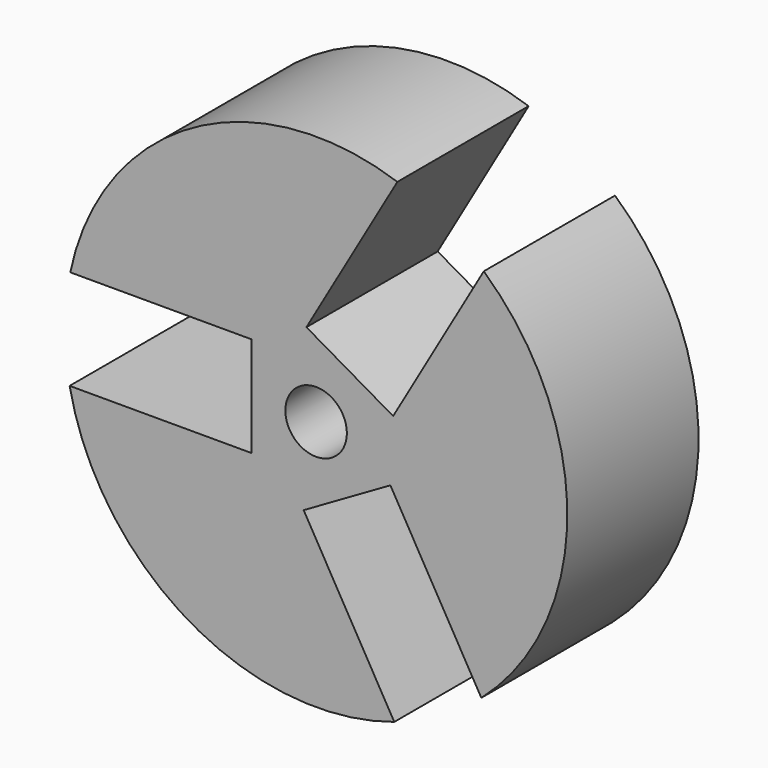
from build123d import *

# Parameters (mm, degrees)
F0_R     = 24.5
F0_R_2   = 3
F1_DEPTH = 16
F2_W     = 26.459999
F2_H     = 9.765
F3_DEPTH = 25


with BuildPart() as f1:
    # F0 (on Front) → F1 (new body)
    with BuildSketch(Plane.XZ):
        Circle(F0_R)
        Circle(F0_R_2, mode=Mode.SUBTRACT)
    extrude(amount=F1_DEPTH)

    # F2 (on Front) → F3 (cut)
    with BuildSketch(Plane.XZ):
        Polygon((7.513219, 2.936858), (20.743218, 25.851889), (12.28648, 30.734389), (-0.943519, 7.819358), align=None)
        Polygon((-1.213216, -7.975067), (12.016783, -30.890099), (20.473521, -26.007599), (7.243522, -3.092567), align=None)
        with Locations((-19.530002, 0.15571)):
            Rectangle(F2_W, F2_H)
    extrude(amount=F3_DEPTH, mode=Mode.SUBTRACT)


solid = f1.part
